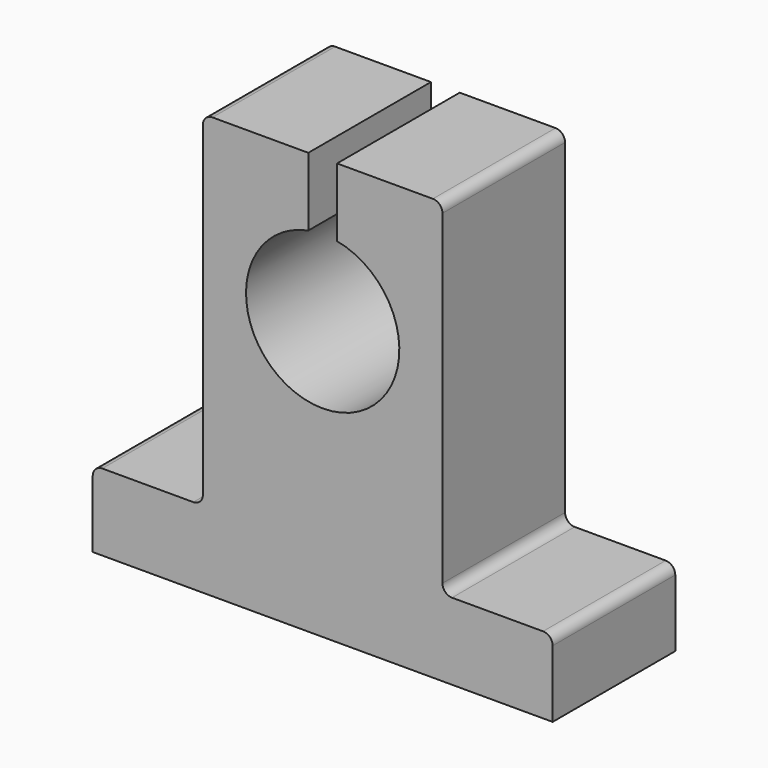
from build123d import *

# Parameters (mm, degrees)
F1_DEPTH = 8


with BuildPart() as f1:
    # F0 (on Front) → F1 (new body, symmetric)
    with BuildSketch(Plane.XZ):
        with BuildLine():
            Line((-24, -23.577462), (24, -23.577462))
            Line((24, -23.577462), (24, -16.577462))
            ThreePointArc((24, -16.577462), (23.707107, -15.870355), (23, -15.577462))
            Line((23, -15.577462), (13.5, -15.577462))
            ThreePointArc((13.5, -15.577462), (12.792893, -15.284569), (12.5, -14.577462))
            Line((12.5, -14.577462), (12.5, 19.422538))
            ThreePointArc((12.5, 19.422538), (12.207107, 20.129645), (11.5, 20.422538))
            Line((11.5, 20.422538), (1.5, 20.422538))
            Line((1.5, 20.422538), (1.5, 13.280655))
            ThreePointArc((1.5, 13.280655), (0, -2.577462), (-1.5, 13.280655))
            Line((-1.5, 13.280655), (-1.5, 20.422538))
            Line((-1.5, 20.422538), (-11.5, 20.422538))
            ThreePointArc((-11.5, 20.422538), (-12.207107, 20.129645), (-12.5, 19.422538))
            Line((-12.5, 19.422538), (-12.5, -14.577462))
            ThreePointArc((-12.5, -14.577462), (-12.792893, -15.284569), (-13.5, -15.577462))
            Line((-13.5, -15.577462), (-23, -15.577462))
            ThreePointArc((-23, -15.577462), (-23.707107, -15.870355), (-24, -16.577462))
            Line((-24, -16.577462), (-24, -23.577462))
        make_face()
    extrude(amount=F1_DEPTH, both=True)


solid = f1.part
